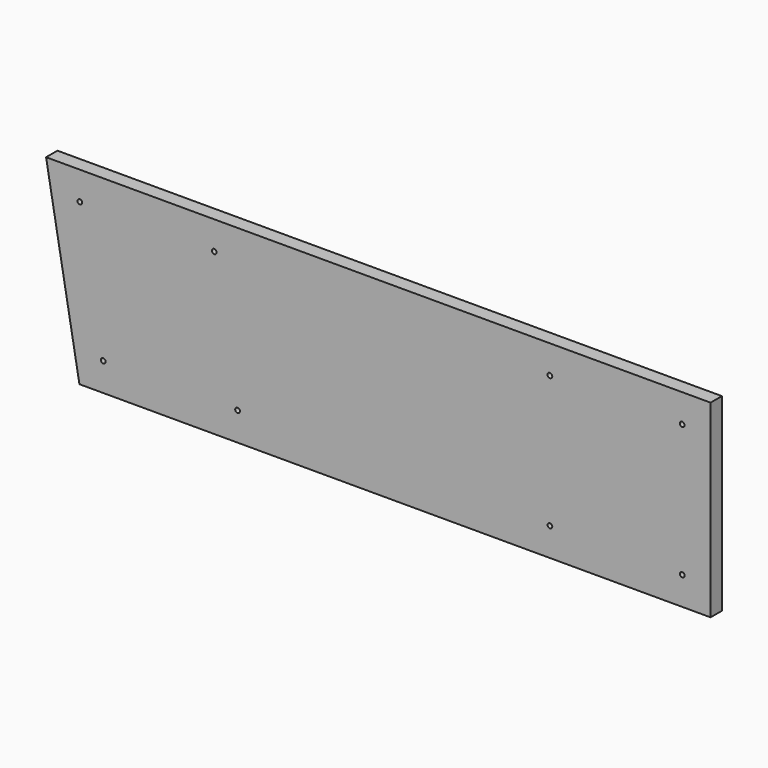
from build123d import *

# Parameters (mm, degrees)
F0_R     = 2.5
F1_DEPTH = 7.5


with BuildPart() as f1:
    # F0 (on Front) → F1 (new body, symmetric)
    with BuildSketch(Plane.XZ):
        Polygon((-667.819926, 0), (0, 0), (0, 200), (-703.085322, 200), align=None)
        with Locations((-642.646937, 30)):
            Circle(F0_R, mode=Mode.SUBTRACT)
        with Locations((-500.487212, 30)):
            Circle(F0_R, mode=Mode.SUBTRACT)
        with Locations((-170, 30)):
            Circle(F0_R, mode=Mode.SUBTRACT)
        with Locations((-30, 30)):
            Circle(F0_R, mode=Mode.SUBTRACT)
        with Locations((-667.332715, 170)):
            Circle(F0_R, mode=Mode.SUBTRACT)
        with Locations((-525.172989, 170)):
            Circle(F0_R, mode=Mode.SUBTRACT)
        with Locations((-170, 170)):
            Circle(F0_R, mode=Mode.SUBTRACT)
        with Locations((-30, 170)):
            Circle(F0_R, mode=Mode.SUBTRACT)
    extrude(amount=F1_DEPTH, both=True)


solid = f1.part
